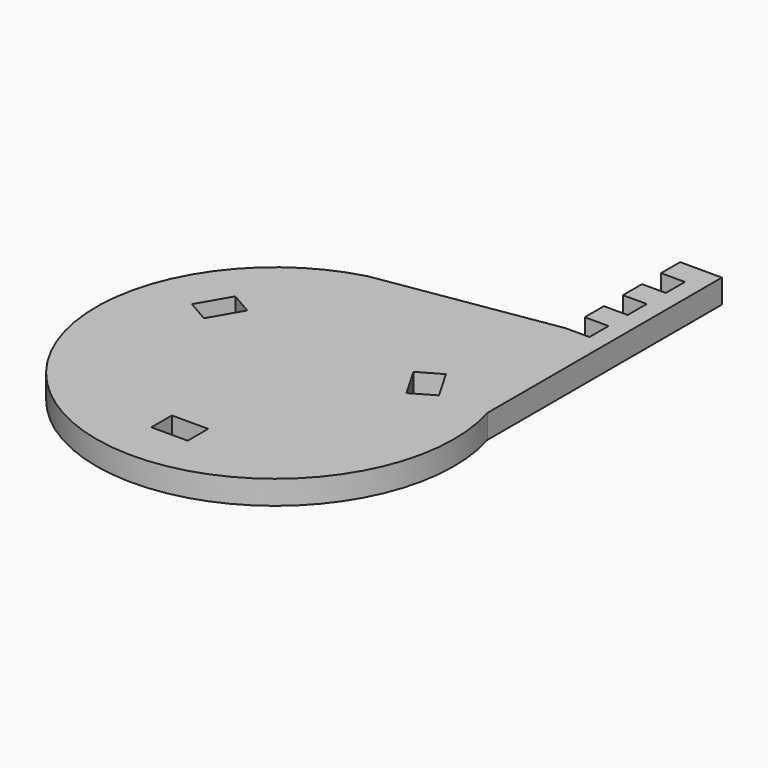
from build123d import *

# Parameters (mm, degrees)
PAD_DEPTH          = 8
SKETCH001_W        = 12.2
SKETCH001_H        = 8.6
POCKET_DEPTH       = 433.263242
POLARPATTERN_COUNT = 3


with BuildPart() as part:
    # Sketch → Pad (new body)
    with BuildSketch(Plane.XY):
        with BuildLine():
            Line((51.5303, 115.351058), (57.5303, 115.351058))
            Line((57.5303, 115.351058), (57.5303, 17.037153))
            ThreePointArc((-15.362291, 58), (-29.394284, -52.306558), (57.5303, 17.037153))
            Line((43.5303, 67.351058), (-15.362291, 58))
            Line((51.5303, 67.351058), (43.5303, 67.351058))
            Line((51.5303, 75.351058), (51.5303, 67.351058))
            Line((43.5303, 75.351058), (51.5303, 75.351058))
            Line((43.5303, 83.351058), (43.5303, 75.351058))
            Line((51.5303, 83.351058), (43.5303, 83.351058))
            Line((51.5303, 91.351058), (51.5303, 83.351058))
            Line((43.5303, 91.351058), (51.5303, 91.351058))
            Line((43.5303, 99.351058), (43.5303, 91.351058))
            Line((51.5303, 99.351058), (43.5303, 99.351058))
            Line((51.5303, 107.351058), (51.5303, 99.351058))
            Line((43.5303, 107.351058), (51.5303, 107.351058))
            Line((43.5303, 115.351058), (43.5303, 107.351058))
            Line((51.5303, 115.351058), (43.5303, 115.351058))
        make_face()
    extrude(amount=PAD_DEPTH)

    # Sketch001 → Pocket (cut, through all)
    with BuildSketch(Plane.XY.offset(8)):
        with Locations((0, -40)):
            Rectangle(SKETCH001_W, SKETCH001_H)
    pocket = extrude(amount=-POCKET_DEPTH, mode=Mode.SUBTRACT)

    # PolarPattern: Pocket ×3 about axis
    polarpattern_axis = Axis((0, 0, 8), (0, 0, 1))
    for i in range(1, POLARPATTERN_COUNT):
        add(pocket.rotate(polarpattern_axis, i * 360 / POLARPATTERN_COUNT), mode=Mode.SUBTRACT)


solid = part.part
